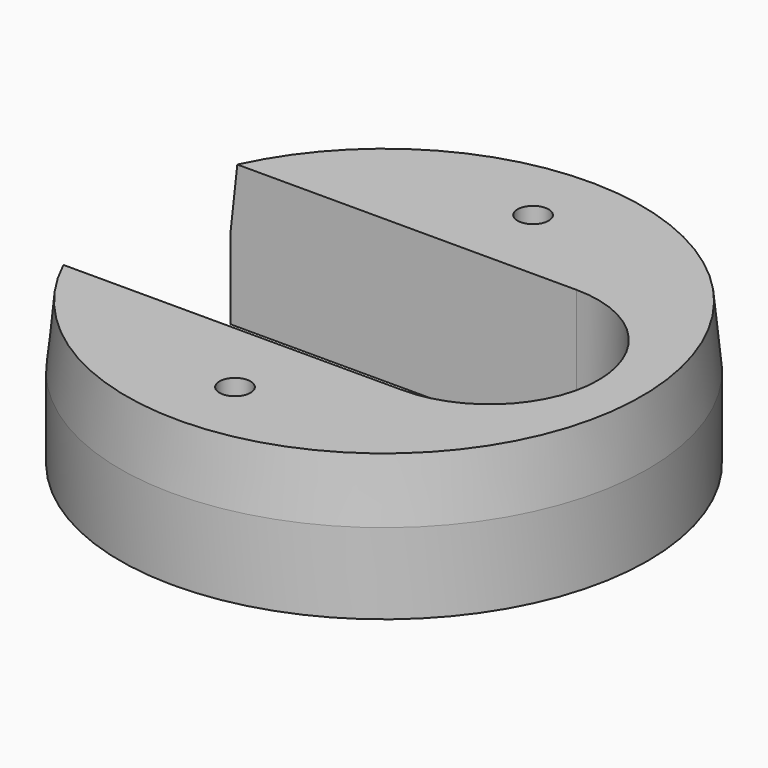
from build123d import *

# Parameters (mm, degrees)
CYLINDER003_R     = 2.5
CYLINDER003_DEPTH = 23
CYLINDER002_R     = 2.5
CYLINDER002_DEPTH = 23
BOX_W             = 59.5
BOX_H             = 35
BOX_DEPTH         = 23
CYLINDER001_R     = 17.5
CYLINDER001_DEPTH = 23
CYLINDER_R        = 42.5
CYLINDER_DEPTH    = 23
CHAMFER_SIZE2     = 1
CHAMFER_SIZE      = 10


with BuildPart() as cylinder003:
    # Cylinder003 → Cylinder003 (new body)
    with BuildSketch(Plane(origin=(0, -30, 0), x_dir=(1, 0, 0), z_dir=(0, 0, 1))):
        Circle(CYLINDER003_R)
    extrude(amount=CYLINDER003_DEPTH)


with BuildPart() as cylinder002:
    # Cylinder002 → Cylinder002 (new body)
    with BuildSketch(Plane(origin=(0, 30, 0), x_dir=(1, 0, 0), z_dir=(0, 0, 1))):
        Circle(CYLINDER002_R)
    extrude(amount=CYLINDER002_DEPTH)


with BuildPart() as cube:
    # Box → Box (new body)
    with BuildSketch(Plane(origin=(-42.5, -17.5, 0), x_dir=(1, 0, 0), z_dir=(0, 0, 1))):
        with Locations((29.75, 17.5)):
            Rectangle(BOX_W, BOX_H)
    extrude(amount=BOX_DEPTH)


with BuildPart() as cylinder001:
    # Cylinder001 → Cylinder001 (new body)
    with BuildSketch(Plane(origin=(17, 0, 0), x_dir=(1, 0, 0), z_dir=(0, 0, 1))):
        Circle(CYLINDER001_R)
    extrude(amount=CYLINDER001_DEPTH)


with BuildPart() as cut003:
    # Cylinder → Cylinder (new body)
    with BuildSketch(Plane.XY):
        Circle(CYLINDER_R)
    extrude(amount=CYLINDER_DEPTH)

    # Chamfer
    chamfer_edges = [cut003.edges().sort_by_distance(p)[0] for p in [
        (-42.5, 0, 23),
    ]]
    chamfer_side = cut003.faces().sort_by_distance((-42.5, 0, 11.5))[0]
    chamfer(chamfer_edges, length=CHAMFER_SIZE, length2=CHAMFER_SIZE2, reference=chamfer_side)

    # Cut: cut Cylinder001
    add(cylinder001.part, mode=Mode.SUBTRACT)

    # Cut001: cut Cube
    add(cube.part, mode=Mode.SUBTRACT)

    # Cut002: cut Cylinder002
    add(cylinder002.part, mode=Mode.SUBTRACT)

    # Cut003: cut Cylinder003
    add(cylinder003.part, mode=Mode.SUBTRACT)


solid = cut003.part
